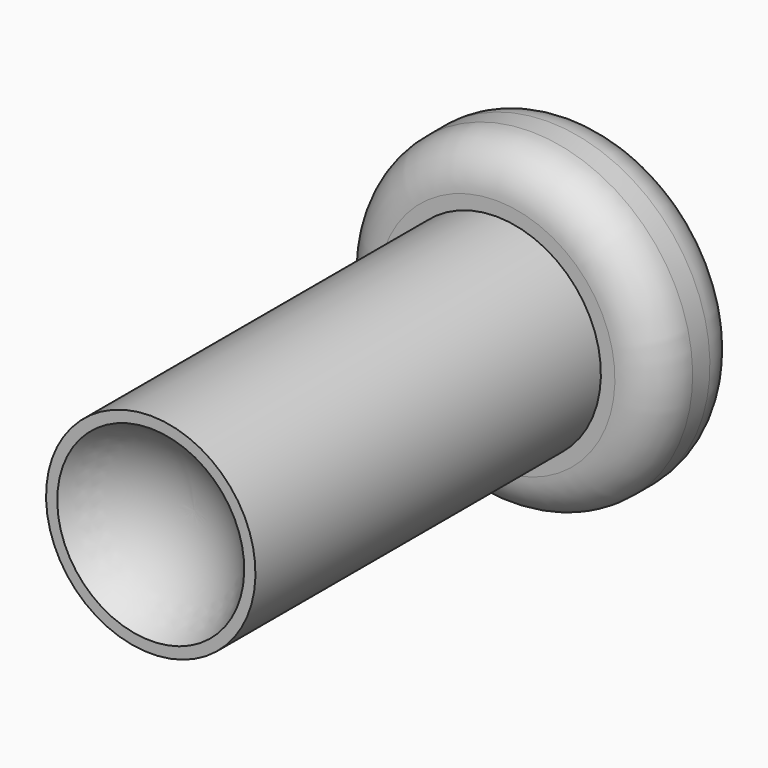
from build123d import *

# Parameters (mm, degrees)
F2_R = 5.08


with BuildPart() as f1:
    # F0 (on Right) → F1 (revolve)
    with BuildSketch(Plane.YZ):
        with BuildLine():
            ThreePointArc((-50.8, 10.998523), (-46.151477, 6.35), (-44.45, 0))
            Line((-44.45, 0), (12.7, 0))
            Line((12.7, 0), (12.7, 19.05))
            Line((12.7, 19.05), (0, 19.05))
            Line((0, 19.05), (0, 12.319))
            Line((0, 12.319), (-50.8, 12.319))
            Line((-50.8, 12.319), (-50.8, 10.998523))
        make_face()
    revolve(axis=Axis((0, 0.051837, 0), (0, 1, 0)))

    # F2
    f2_edges = [f1.edges().sort_by_distance(p)[0] for p in [
        (0, 12.7, -19.05),
        (0, 0, -19.05),
    ]]
    fillet(f2_edges, radius=F2_R)


solid = f1.part
